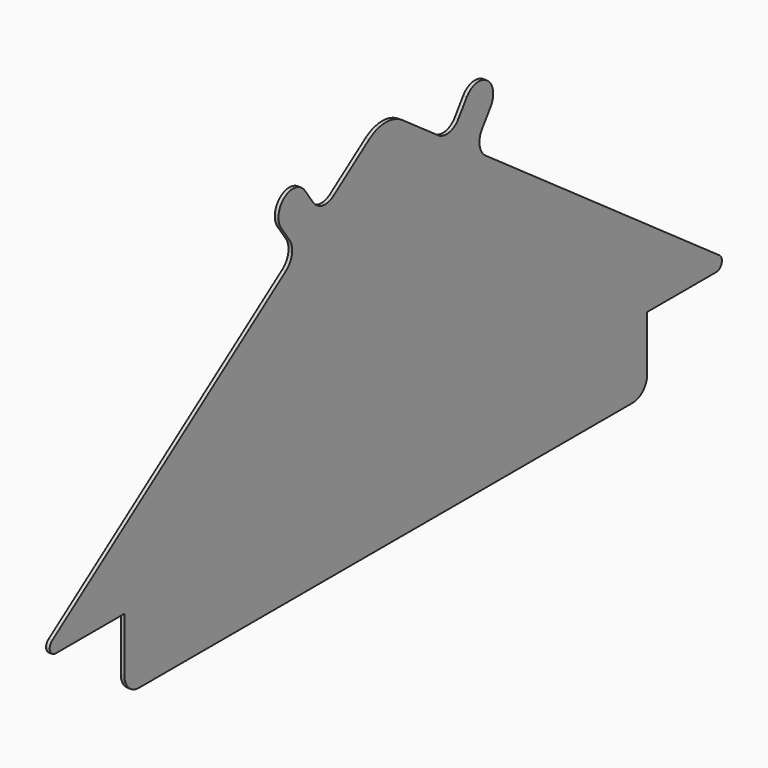
from build123d import *

# Parameters (mm, degrees)
F1_DEPTH = 1
F2_R     = 5
F3_R     = 2
F4_R     = 10
F6_DEPTH = 1
F8_R     = 5


with BuildPart() as f1:
    # F0 (on Right) → F1 (new body)
    with BuildSketch(Plane.YZ):
        Polygon((90, 0), (120, 0), (0, 84.8264595052), (-120, 0), (-90, 0), (-90, -20), (90, -20), align=None)
    extrude(amount=F1_DEPTH)

    # F2
    f2_edges = [f1.edges().sort_by_distance(p)[0] for p in [
        (0.5, -90, -20),
        (0.5, 90, -20),
    ]]
    fillet(f2_edges, radius=F2_R)

    # F3
    f3_edges = [f1.edges().sort_by_distance(p)[0] for p in [
        (0.5, 120, 0),
        (0.5, -120, 0),
    ]]
    fillet(f3_edges, radius=F3_R)

    # F4
    f4_edges = [f1.edges().sort_by_distance(p)[0] for p in [
        (0.5, 0, 84.82646),
    ]]
    fillet(f4_edges, radius=F4_R)

    # F5 (on face) → F6 (join, through all)
    with BuildSketch(Plane.YZ.offset(1)):
        with BuildLine():
            Line((-30.2697404192, 63.4291685894), (-22.1039292974, 69.2014756431))
            Line((-22.1039292974, 69.2014756431), (-27.8762363511, 77.3672867649))
            ThreePointArc((-27.8762363511, 77.3672867649), (-34.8452954389, 78.564038799), (-36.042047473, 71.5949797112))
            Line((-36.042047473, 71.5949797112), (-30.2697404192, 63.4291685894))
        make_face()
    extrude(amount=-F6_DEPTH)

    # F7: F1 across plane


with BuildPart() as f1_1:
    add(f1.part)
    add(f1.part.mirror(Plane.XZ))

    # F8
    f8_edges = [f1_1.edges().sort_by_distance(p)[0] for p in [
        (0.5, -30.26974, 63.429169),
        (0.5, -22.103929, 69.201476),
        (0.5, 22.103929, 69.201476),
        (0.5, 30.26974, 63.429169),
    ]]
    fillet(f8_edges, radius=F8_R)


solid = f1_1.part
